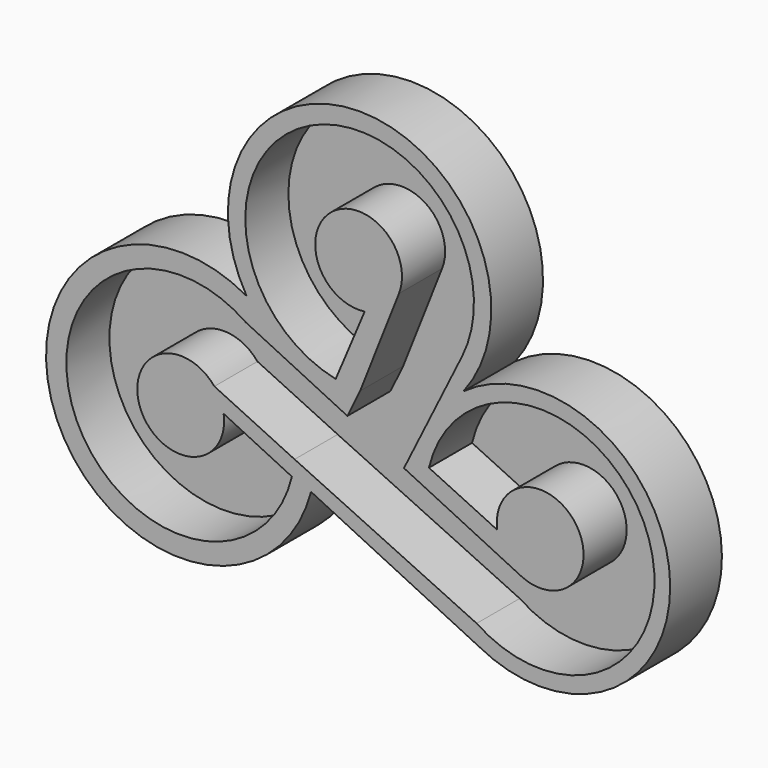
from build123d import *

# Parameters (mm, degrees)
F0_W     = 76.2
F0_H     = 76.2
F1_DEPTH = 7.62
F3_DEPTH = 6.35
F4_W     = 76.2
F4_H     = 76.2
F5_DEPTH = 25.4


with BuildPart() as f1:
    # F0 (on Front) → F1 (new body)
    with BuildSketch(Plane.XZ):
        with Locations((1.97351, -18.584051)):
            Rectangle(F0_W, F0_H)
    extrude(amount=F1_DEPTH)

    # F2 (on face) → F3 (cut)
    with BuildSketch(Plane.XZ.offset(7.62)):
        with BuildLine():
            ThreePointArc((-13.869856, -30.198783), (-23.613724, -33.018671), (-14.965154, -27.718014))
            Line((-14.965154, -27.718014), (-5.508855, -32.213487))
            Line((-5.508855, -32.213487), (15.947649, -42.256406))
            ThreePointArc((15.947649, -42.256406), (35.979187, -26.126775), (10.324704, -27.936473))
            Line((10.324704, -27.936473), (18.371095, -31.763075))
            ThreePointArc((18.371095, -31.763075), (27.571492, -28.044193), (21.199014, -35.651355))
            Line((21.199014, -35.651355), (9.986617, -30.198783))
            Line((9.986617, -30.198783), (7.381885, -28.932106))
            Line((7.381885, -28.932106), (14.229408, -15.111173))
            ThreePointArc((14.229408, -15.111173), (-3.707419, 3.005858), (-0.665507, -22.30626))
            Line((-0.665507, -22.30626), (2.75023, -14.190622))
            ThreePointArc((2.75023, -14.190622), (-1.129552, -5.110009), (6.792904, -11.004492))
            Line((6.792904, -11.004492), (2.213593, -22.604426))
            Line((2.213593, -22.604426), (0.713445, -25.689254))
            Line((0.713445, -25.689254), (-11.252215, -19.870372))
            ThreePointArc((-11.252215, -19.870372), (-31.530362, -35.752906), (-5.825069, -34.110951))
            Line((-5.825069, -34.110951), (-13.869856, -30.198783))
        make_face()
    extrude(amount=-F3_DEPTH, mode=Mode.SUBTRACT)

    # F4 (on face) → F5 (cut)
    with BuildSketch(Plane.XZ.offset(7.62)):
        with Locations((1.97351, -18.584051)):
            Rectangle(F4_W, F4_H)
        with BuildLine():
            ThreePointArc((-11.160331, -17.109246), (3.105819, 6.365386), (14.391984, -18.678653))
            ThreePointArc((14.391984, -18.678653), (38.724881, -29.989974), (16.189961, -44.557514))
            Line((16.189961, -44.557514), (-3.568678, -34.948918))
            ThreePointArc((-3.568678, -34.948918), (-33.539138, -37.167669), (-11.160331, -17.109246))
        make_face(mode=Mode.SUBTRACT)
    extrude(amount=-F5_DEPTH, mode=Mode.SUBTRACT)


solid = f1.part
